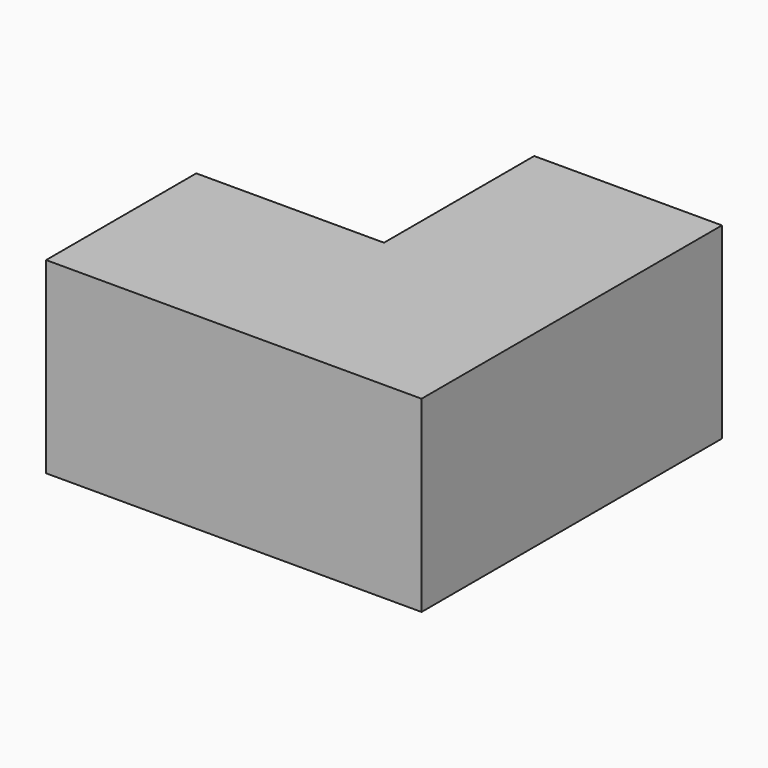
from build123d import *

# Parameters (mm, degrees)
F0_W     = 38.1
F0_H     = 19.05
F1_DEPTH = 19.05
F2_W     = 19.05
F2_H     = 19.05
F3_DEPTH = 19.05


with BuildPart() as f1:
    # F0 (on Front) → F1 (new body)
    with BuildSketch(Plane.XZ):
        with Locations((-25.4507998444, 16.3830000661)):
            Rectangle(F0_W, F0_H)
    extrude(amount=F1_DEPTH)

    # F2 (on face) → F3 (join)
    with BuildSketch(Plane.XY.offset(25.9080000661)):
        with Locations((-15.9257998444, 9.525)):
            Rectangle(F2_W, F2_H)
    extrude(amount=-F3_DEPTH)


solid = f1.part
